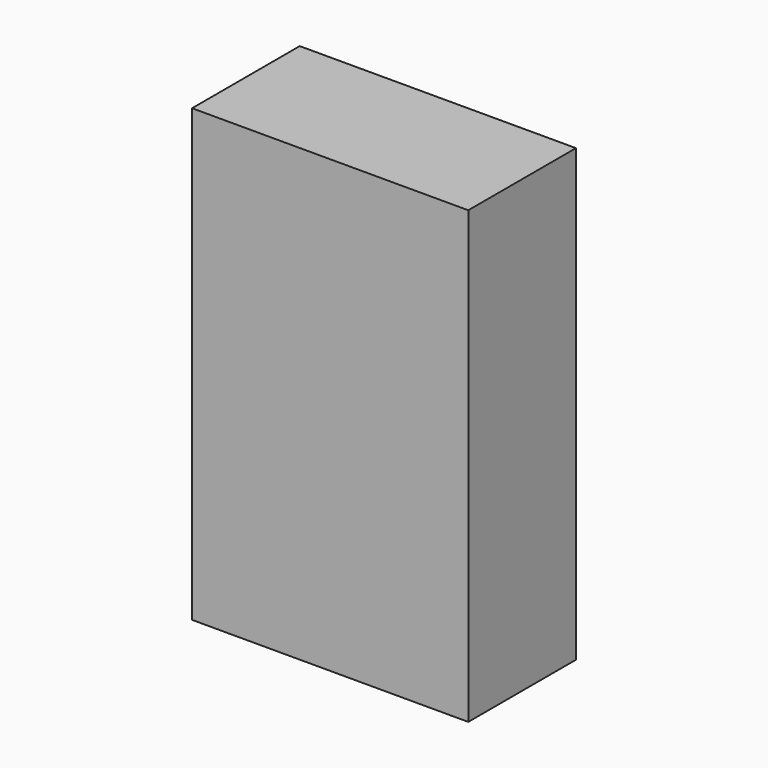
from build123d import *

# Parameters (mm, degrees)
F0_W     = 195
F0_H     = 318
F1_DEPTH = 95
F2_W     = 50
F2_H     = 80
F3_DEPTH = 35
F4_START = 15.7
F2_W_2   = 100
F2_H_2   = 120
F4_DEPTH = 19.2


with BuildPart() as f1:
    # F0 (on Front) → F1 (new body)
    with BuildSketch(Plane.XZ):
        Rectangle(F0_W, F0_H)
    extrude(amount=F1_DEPTH)

    # F2 (on face) → F3 (join)
    with BuildSketch(Plane(origin=(0, 0, 0), x_dir=(-1, 0, 0), z_dir=(0, 1, 0))):
        Rectangle(F2_W, F2_H)
    extrude(amount=F3_DEPTH)

    # F2 (on face) → F4 (join)
    with BuildSketch(Plane(origin=(0, 0, 0), x_dir=(-1, 0, 0), z_dir=(0, 1, 0)).offset(F4_START)):
        Rectangle(F2_W_2, F2_H_2)
        Rectangle(F2_W, F2_H, mode=Mode.SUBTRACT)
    extrude(amount=F4_DEPTH)


solid = f1.part
